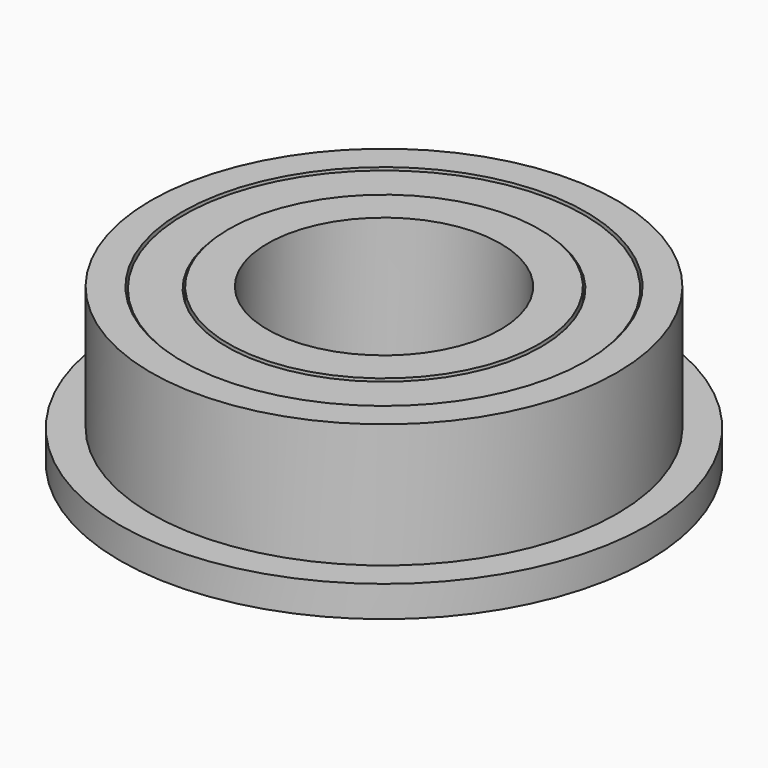
from build123d import *

# Parameters (mm, degrees)
F2_R     = 5.2
F2_R_2   = 4
F3_DEPTH = 3
F4_R     = 5.15
F4_R_2   = 4.05
F5_DEPTH = 2.95


with BuildPart() as f1:
    # F0 (on Front) → F1 (revolve)
    with BuildSketch(Plane.XZ):
        Polygon((3, 4), (3, 0), (6.8, 0), (6.8, 0.8), (6, 0.8), (6, 4), align=None)
    revolve(axis=Axis((0, 0, 2), (0, 0, 1)))

    # F2 (on face) → F3 (cut)
    with BuildSketch(Plane.XY.offset(4)):
        Circle(F2_R)
        Circle(F2_R_2, mode=Mode.SUBTRACT)
    extrude(amount=-F3_DEPTH, mode=Mode.SUBTRACT)

    # F4 (on face) → F5 (join)
    with BuildSketch(Plane.XY.offset(1)):
        Circle(F4_R)
        Circle(F4_R_2, mode=Mode.SUBTRACT)
    extrude(amount=F5_DEPTH)


solid = f1.part
